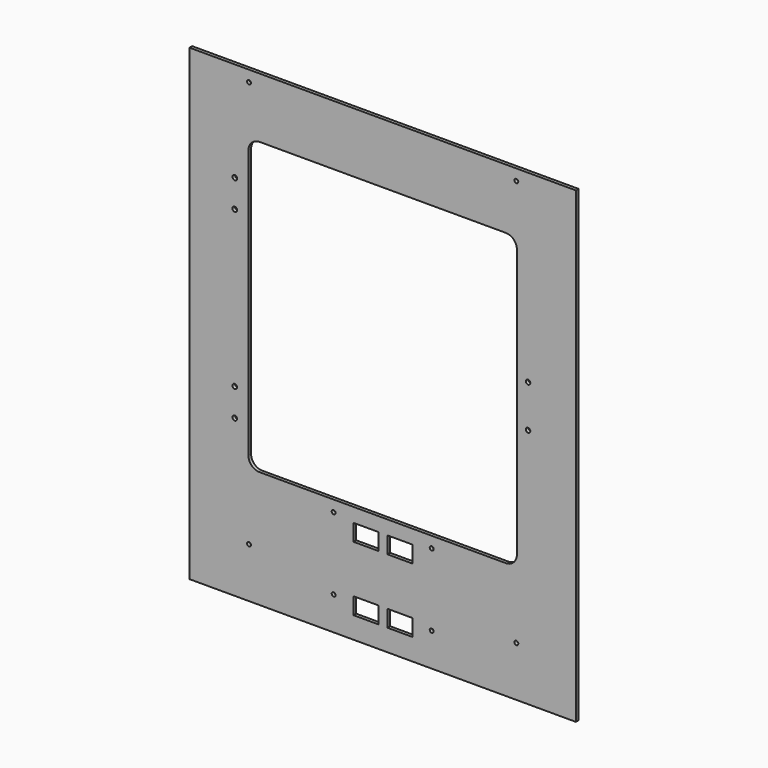
from build123d import *

# Parameters (mm, degrees)
SKETCH_W            = 347
SKETCH_H            = 420
PAD_DEPTH           = 3
SKETCH001_R         = 1.75
POCKET_DEPTH        = 3.001
POCKET001_DEPTH     = 5
SKETCH003_R         = 1.75
POCKET002_DEPTH     = 3.001
SKETCH005_W         = 22.5
SKETCH005_H         = 15
POCKET003_DEPTH     = 3
LINEARPATTERN_COUNT = 2
LINEARPATTERN_PITCH = 58
SKETCH006_R         = 2.1
SKETCH006_R_2       = 2
POCKET004_DEPTH     = 3.001


with BuildPart() as part:
    # Sketch → Pad (new body)
    with BuildSketch(Plane.XZ):
        with Locations((173.5, 210)):
            Rectangle(SKETCH_W, SKETCH_H)
    extrude(amount=PAD_DEPTH)

    # Sketch001 (on Face6 of Pad) → Pocket (cut, through all)
    with BuildSketch(Plane.XZ.offset(3)):
        with Locations((53.5, 45)):
            Circle(SKETCH001_R)
        with Locations((293.5, 45)):
            Circle(SKETCH001_R)
        with Locations((293.5, 410)):
            Circle(SKETCH001_R)
        with Locations((53.5, 410)):
            Circle(SKETCH001_R)
    extrude(amount=-POCKET_DEPTH, mode=Mode.SUBTRACT)

    # Sketch002 (on Face5 of Pocket) → Pocket001 (cut)
    with BuildSketch(Plane.XZ.offset(3)):
        with BuildLine():
            Line((53, 356), (53, 115))
            ThreePointArc((53, 115), (55.928932, 107.928932), (63, 105))
            Line((63, 105), (284, 105))
            ThreePointArc((284, 105), (291.071068, 107.928932), (294, 115))
            Line((294, 115), (294, 356))
            ThreePointArc((294, 356), (291.071068, 363.071068), (284, 366))
            Line((284, 366), (63, 366))
            ThreePointArc((63, 366), (55.928932, 363.071068), (53, 356))
        make_face()
    extrude(amount=-POCKET001_DEPTH, mode=Mode.SUBTRACT)

    # Sketch003 (on Face5 of Pocket001) → Pocket002 (cut, through all)
    with BuildSketch(Plane.XZ.offset(3)):
        with Locations((129.5, 30)):
            Circle(SKETCH003_R)
        with Locations((129.5, 95)):
            Circle(SKETCH003_R)
        with Locations((217.5, 95)):
            Circle(SKETCH003_R)
        with Locations((217.5, 30)):
            Circle(SKETCH003_R)
    extrude(amount=-POCKET002_DEPTH, mode=Mode.SUBTRACT)

    # Sketch005 (on Face5 of Pocket002) → Pocket003 (cut)
    with BuildSketch(Plane.XZ.offset(3)):
        with Locations((158.5, 84.9)):
            Rectangle(SKETCH005_W, SKETCH005_H)
        with Locations((189, 84.9)):
            Rectangle(SKETCH005_W, SKETCH005_H)
    pocket003 = extrude(amount=-POCKET003_DEPTH, mode=Mode.SUBTRACT)

    # LinearPattern: Pocket003 ×2
    with Locations(*[(0, 0, -i * LINEARPATTERN_PITCH) for i in range(1, LINEARPATTERN_COUNT)]):
        add(pocket003, mode=Mode.SUBTRACT)

    # Sketch006 (on Face5 of LinearPattern) → Pocket004 (cut, through all)
    with BuildSketch(Plane.XZ.offset(3)):
        with Locations((40.75, 330.5)):
            Circle(SKETCH006_R)
        with Locations((40.75, 305.5)):
            Circle(SKETCH006_R)
        with Locations((40.75, 165.5)):
            Circle(SKETCH006_R)
        with Locations((40.75, 140.5)):
            Circle(SKETCH006_R)
        with Locations((304, 254.5)):
            Circle(SKETCH006_R_2)
        with Locations((304, 216.5)):
            Circle(SKETCH006_R_2)
    extrude(amount=-POCKET004_DEPTH, mode=Mode.SUBTRACT)


solid = part.part
